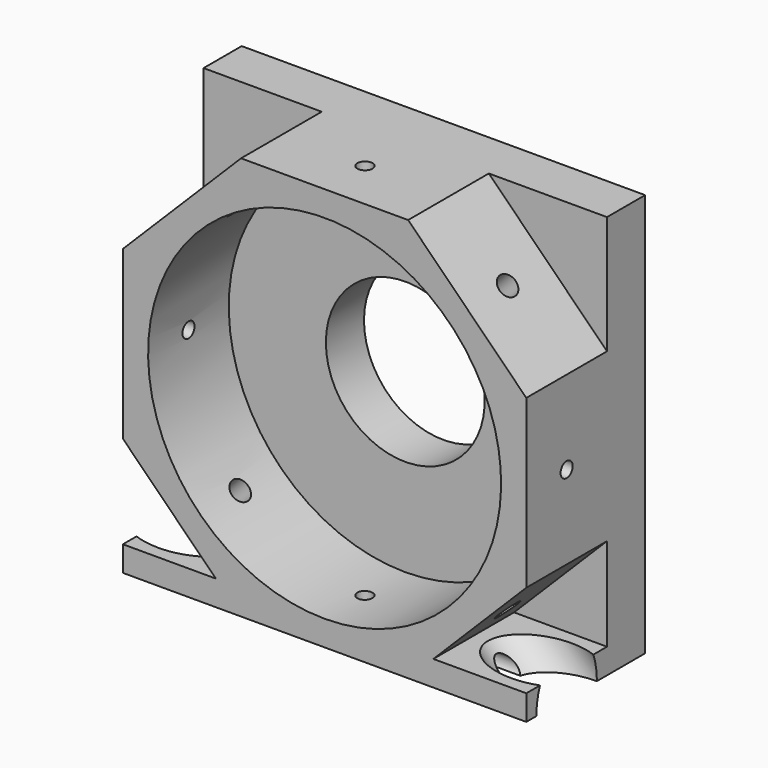
from build123d import *

# Parameters (mm, degrees)
F1_DEPTH  = 25.4
F2_W      = 101.6
F2_H      = 101.6
F2_R      = 20
F3_DEPTH  = 12
F5_R      = 3.175
F6_DEPTH  = 101.6
F7_R      = 9.525
F8_DEPTH  = 31.5670489687
F9_R      = 9.525
F10_DEPTH = 31.5670489686
F11_R     = 1.905
F12_DEPTH = 101.6
F13_R     = 1.905
F14_DEPTH = 101.6
F17_DEPTH = 52.832
F4_R      = 2.5527
F18_DEPTH = 101.6


with BuildPart() as f1:
    # F0 (on Front) → F1 (new body)
    with BuildSketch(Plane.XZ):
        Polygon((-27.3920489686, -44.45), (1.258e-07, -44.45), (27.3920489686, -44.45), (50.8, -21.0420489686), (50.8, 21.0420489686), (21.0420489686, 50.8), (-21.0420489686, 50.8), (-50.8, 21.0420489686), (-50.8, -21.0420489686), align=None)
        with BuildLine():
            ThreePointArc((1.258e-07, -44.45), (-31.4308964682, 31.4308963793), (44.45, 0))
            ThreePointArc((44.45, 0), (31.4308964682, -31.4308963793), (1.258e-07, -44.45))
        make_face(mode=Mode.SUBTRACT)
        Polygon((27.3920489686, -44.45), (1.258e-07, -44.45), (-27.3920489686, -44.45), (-21.0420489686, -50.8), (21.0420489686, -50.8), align=None)
        Polygon((-21.0420489686, -50.8), (-27.3920489686, -44.45), (-50.8, -44.45), (-50.8, -50.8), align=None)
        Polygon((50.8, -44.45), (27.3920489686, -44.45), (21.0420489686, -50.8), (50.8, -50.8), align=None)
    extrude(amount=F1_DEPTH)

    # F2 (on face) → F3 (join)
    with BuildSketch(Plane(origin=(0, 0, 0), x_dir=(-1, 0, 0), z_dir=(0, 1, 0))):
        Rectangle(F2_W, F2_H)
        Circle(F2_R, mode=Mode.SUBTRACT)
    extrude(amount=F3_DEPTH)

    # F5 (on face) → F6 (cut, through all)
    with BuildSketch(Plane(origin=(-35.9210244843, 0, 35.9210244843), x_dir=(0.7071067812, 0, 0.7071067812), z_dir=(-0.7071067812, 0, 0.7071067812))):
        with Locations((0, -12.7)):
            Circle(F5_R)
    extrude(amount=-F6_DEPTH, mode=Mode.SUBTRACT)

    # F7 (on face) → F8 (cut, up to face)
    with BuildSketch(Plane(origin=(-35.9210244843, 0, -35.9210244843), x_dir=(0, -1, 0), z_dir=(-0.7071067812, 0, -0.7071067812))):
        with Locations((12.7, 2e-10)):
            Circle(F7_R)
    extrude(amount=F8_DEPTH, mode=Mode.SUBTRACT)

    # F9 (on face) → F10 (cut, up to face)
    with BuildSketch(Plane(origin=(35.9210244843, 0, -35.9210244843), x_dir=(0.7071067812, 0, 0.7071067812), z_dir=(0.7071067812, 0, -0.7071067812))):
        with Locations((0, 12.7)):
            Circle(F9_R)
    extrude(amount=F10_DEPTH, mode=Mode.SUBTRACT)

    # F11 (on face) → F12 (cut, through all)
    with BuildSketch(Plane.XY.offset(50.8)):
        with Locations((0, -12.7)):
            Circle(F11_R)
    extrude(amount=-F12_DEPTH, mode=Mode.SUBTRACT)

    # F13 (on face) → F14 (cut, through all)
    with BuildSketch(Plane(origin=(-50.8, 0, 0), x_dir=(0, -1, 0), z_dir=(-1, 0, 0))):
        with Locations((12.7, 0)):
            Circle(F13_R)
    extrude(amount=-F14_DEPTH, mode=Mode.SUBTRACT)

    # F16 (on face) → F17 (cut)
    with BuildSketch(Plane.YZ.offset(50.8)):
        with BuildLine():
            Line((-14.605, -50.8), (-10.795, -50.8))
            ThreePointArc((-10.795, -50.8), (-12.7, -46.5799479175), (-14.605, -50.8))
        make_face()
    extrude(amount=-F17_DEPTH, mode=Mode.SUBTRACT)

    # F4 (on face) → F18 (cut, through all)
    with BuildSketch(Plane(origin=(35.9210244843, 0, 35.9210244843), x_dir=(0, 1, 0), z_dir=(0.7071067812, 0, 0.7071067812))):
        with Locations((-12.7, 0)):
            Circle(F4_R)
    extrude(amount=-F18_DEPTH, mode=Mode.SUBTRACT)


solid = f1.part
